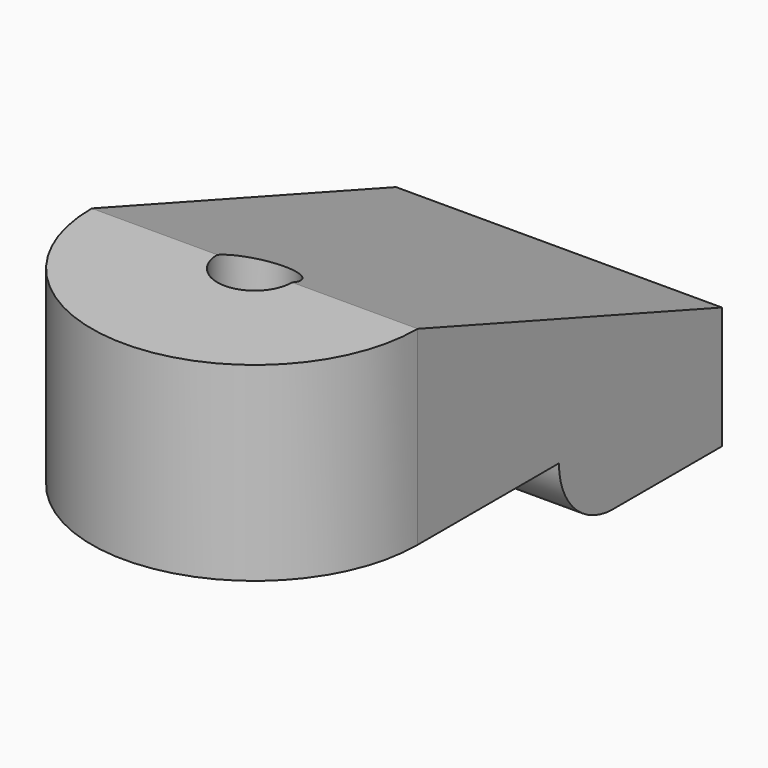
from build123d import *

# Parameters (mm, degrees)
SKETCH114_R          = 1.375
PAD047_DEPTH         = 7
POCKET060_DEPTH      = 100
POCKET060_DEPTH_BACK = 100
SKETCH116_R          = 3.125
POCKET061_DEPTH      = 4.5
SKETCH117_W          = 12
SKETCH117_H          = 7.5
PAD048_DEPTH         = 2.5
FILLET025_R          = 2.49


with BuildPart() as part:
    # Sketch114 → Pad047 (new body)
    with BuildSketch(Plane.XY):
        with BuildLine():
            ThreePointArc((-6, 0), (0, -6), (6, 0))
            Line((6, 0), (6, 14))
            Line((-6, 14), (6, 14))
            Line((-6, 0), (-6, 14))
        make_face()
        Circle(SKETCH114_R, mode=Mode.SUBTRACT)
    extrude(amount=PAD047_DEPTH)

    # Sketch115 → Pocket060 (cut, two sides)
    with BuildSketch(Plane.YZ) as pocket060_sk:
        Polygon((0, 7), (14, 2), (14, 15.229534), align=None)
    extrude(amount=-POCKET060_DEPTH, mode=Mode.SUBTRACT)
    extrude(pocket060_sk.sketch, amount=POCKET060_DEPTH_BACK, mode=Mode.SUBTRACT)

    # Sketch116 → Pocket061 (cut)
    with BuildSketch(Plane.XY):
        Circle(SKETCH116_R)
    extrude(amount=POCKET061_DEPTH, mode=Mode.SUBTRACT)

    # Sketch117 → Pad048 (join)
    with BuildSketch(Plane.XY):
        with Locations((0, 10.25)):
            Rectangle(SKETCH117_W, SKETCH117_H)
    extrude(amount=-PAD048_DEPTH)

    # Fillet025
    fillet025_edges = [part.edges().sort_by_distance(p)[0] for p in [
        (0, 6.5, -2.5),
    ]]
    fillet(fillet025_edges, radius=FILLET025_R)


solid = part.part
